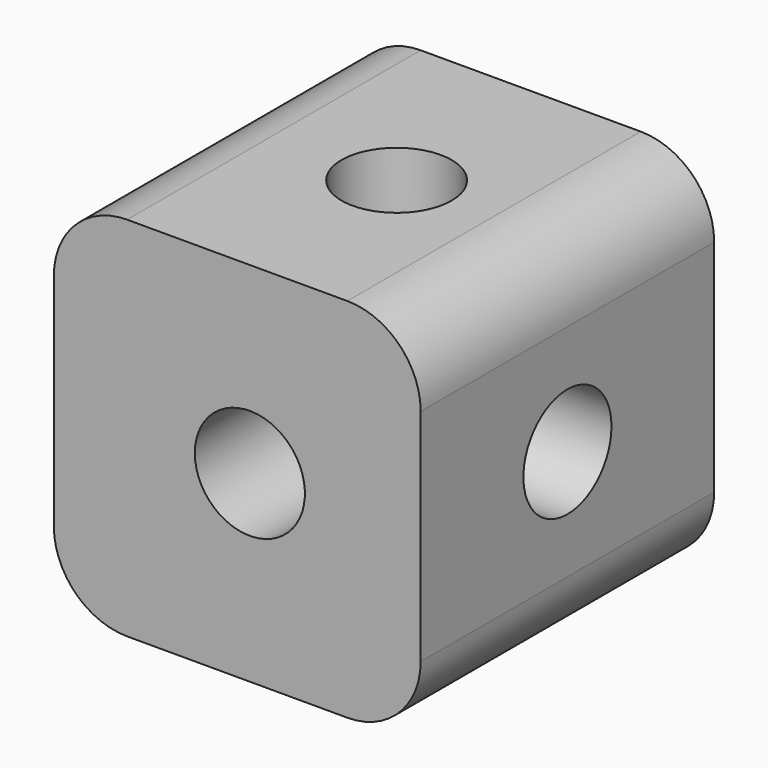
from build123d import *

# Parameters (mm, degrees)
F1_DEPTH = 100
F2_R     = 15
F3_DEPTH = 100.001
F4_R     = 15
F5_DEPTH = 100.001
F6_R     = 15
F7_DEPTH = 100.001


with BuildPart() as f1:
    # F0 (on Front) → F1 (new body)
    with BuildSketch(Plane.XZ):
        with BuildLine():
            ThreePointArc((46.564883, 30), (40.707019, 44.142136), (26.564883, 50))
            Line((26.564883, 50), (-33.435117, 50))
            ThreePointArc((-33.435117, 50), (-47.577252, 44.142136), (-53.435117, 30))
            Line((-53.435117, 30), (-53.435117, -30))
            ThreePointArc((-53.435117, -30), (-47.577252, -44.142136), (-33.435117, -50))
            Line((-33.435117, -50), (26.564883, -50))
            ThreePointArc((26.564883, -50), (40.707019, -44.142136), (46.564883, -30))
            Line((46.564883, -30), (46.564883, 30))
        make_face()
    extrude(amount=F1_DEPTH)

    # F2 (on face) → F3 (cut, through all)
    with BuildSketch(Plane.XY.offset(50)):
        with Locations((0, -50)):
            Circle(F2_R)
    extrude(amount=-F3_DEPTH, mode=Mode.SUBTRACT)

    # F4 (on face) → F5 (cut, through all)
    with BuildSketch(Plane(origin=(0, 0, 0), x_dir=(-1, 0, 0), z_dir=(0, 1, 0))):
        Circle(F4_R)
    extrude(amount=-F5_DEPTH, mode=Mode.SUBTRACT)

    # F6 (on face) → F7 (cut, through all)
    with BuildSketch(Plane.YZ.offset(46.564883)):
        with Locations((-50, 0)):
            Circle(F6_R)
    extrude(amount=-F7_DEPTH, mode=Mode.SUBTRACT)


solid = f1.part
